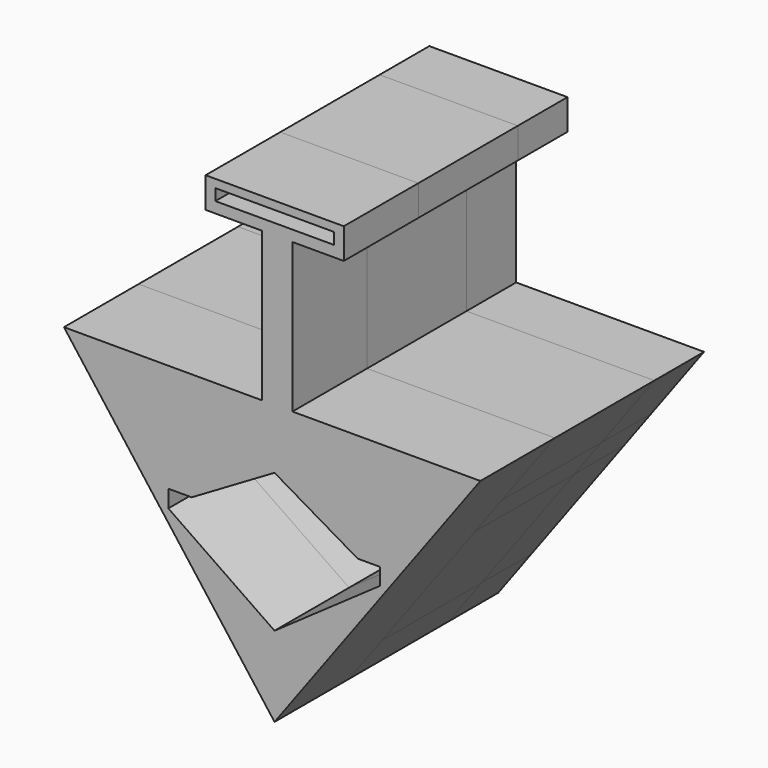
from build123d import *

# Parameters (mm, degrees)
F0_W      = 48.461918
F0_H      = 4.679083
F0_R      = 10.433779
F0_R_2    = 6.546858
F1_DEPTH  = 38.1
F0_W_2    = 12.404488
F0_H_2    = 61.022204
F2_DEPTH  = 76.2
F2_FACE_W = 48.461918
F2_FACE_H = 4.679083
F3_DEPTH  = 38.1
F4_DEPTH  = 25.4


with BuildPart() as f1:
    # F0 (on Front) → F1 (new body)
    with BuildSketch(Plane.XZ):
        Polygon((62.453386, 14.853092), (84.140211, 44.254274), (55.262458, 44.254274), (55.262458, 35.366073), (67.959888, 35.366073), (55.300537, 20.129158), align=None)
        Polygon((0, -69.815982), (13.449272, -51.582585), (-13.759367, -51.582585), align=None)
        Polygon((-86.080205, 44.254274), (-63.49443, 14.324454), (-56.763492, 20.129158), (-69.903679, 35.366073), (-57.20625, 35.366073), (-57.20625, 44.254274), align=None)
        Polygon((12.404488, 29.258548), (12.404488, 44.254274), (7.325516, 44.254274), (-5.078972, 44.254274), (-9.840053, 44.254274), (-9.840053, 29.258548), align=None)
        Polygon((-5.078972, 105.276478), (7.325516, 105.276478), (28.311934, 105.276478), (28.311934, 117.766815), (-28.171266, 117.766815), (-28.171266, 105.276478), align=None)
        with Locations((0.054005, 112.085069)):
            Rectangle(F0_W, F0_H, mode=Mode.SUBTRACT)
        Circle(F0_R)
        Circle(F0_R_2, mode=Mode.SUBTRACT)
    extrude(amount=F1_DEPTH)


with BuildPart() as f2:
    # F0 (on Front) → F2 (new body)
    with BuildSketch(Plane.XZ):
        Polygon((62.453386, 14.853092), (84.140211, 44.254274), (55.262458, 44.254274), (55.262458, 35.366073), (67.959888, 35.366073), (55.300537, 20.129158), align=None)
        Polygon((51.497486, 0), (62.453386, 14.853092), (55.300537, 20.129158), (67.959888, 35.366073), (55.262458, 35.366073), (55.262458, 44.254274), (26.752584, 44.254274), (26.752584, 29.258548), (48.084265, 29.258548), (31.147928, 15.80614), (47.033537, 11.320921), (33.993676, 0), (43.190195, 0), align=None)
        Polygon((13.449272, -51.582585), (51.497486, 0), (43.190195, 0), (43.190195, -6.783513), (0, -36.989871), (-43.404702, -7.092567), (-43.404702, 0), (-52.684847, 0), (-13.759367, -51.582585), align=None)
        Polygon((26.752584, 29.258548), (26.752584, 44.254274), (12.404488, 44.254274), (12.404488, 29.258548), (-9.840053, 29.258548), (-9.840053, 44.254274), (-24.176954, 44.254274), (-24.176954, 29.258548), (-45.508636, 29.258548), (-33.828657, 17.594593), (-48.606484, 8.974194), (-33.853007, 0), (0, 19.840313), (33.993676, 0), (47.033537, 11.320921), (31.147928, 15.80614), (48.084265, 29.258548), align=None)
        Polygon((0, -69.815982), (13.449272, -51.582585), (-13.759367, -51.582585), align=None)
        Polygon((12.404488, 29.258548), (12.404488, 44.254274), (7.325516, 44.254274), (-5.078972, 44.254274), (-9.840053, 44.254274), (-9.840053, 29.258548), align=None)
        with Locations((1.123272, 74.765376)):
            Rectangle(F0_W_2, F0_H_2)
        Polygon((-63.49443, 14.324454), (-52.684847, 0), (-43.404702, 0), (-41.229746, 0), (-33.853007, 0), (-48.606484, 8.974194), (-33.828657, 17.594593), (-45.508636, 29.258548), (-24.176954, 29.258548), (-24.176954, 44.254274), (-57.20625, 44.254274), (-57.20625, 35.366073), (-69.903679, 35.366073), (-56.763492, 20.129158), align=None)
        Polygon((-5.078972, 105.276478), (7.325516, 105.276478), (28.311934, 105.276478), (28.311934, 117.766815), (-28.171266, 117.766815), (-28.171266, 105.276478), align=None)
        with Locations((0.054005, 112.085069)):
            Rectangle(F0_W, F0_H, mode=Mode.SUBTRACT)
        Polygon((-86.080205, 44.254274), (-63.49443, 14.324454), (-56.763492, 20.129158), (-69.903679, 35.366073), (-57.20625, 35.366073), (-57.20625, 44.254274), align=None)
    extrude(amount=F2_DEPTH)


with BuildPart() as f3:
    # F2_face (on face) → F3 (new body)
    with BuildSketch(Plane(origin=(-0.605972, -76.2, 22.707464), x_dir=(1, 0, 0), z_dir=(0, -1, 0))):
        Polygon((7.931488, 82.569013), (28.917906, 82.569013), (28.917906, 95.05935), (-27.565295, 95.05935), (-27.565295, 82.569013), (-4.473, 82.569013), (-4.473, 21.54681), (-85.474233, 21.54681), (0.605972, -92.523446), (84.746182, 21.54681), (7.931488, 21.54681), align=None)
        with Locations((0.659976, 89.377603)):
            Rectangle(F2_FACE_W, F2_FACE_H, mode=Mode.SUBTRACT)
        Polygon((-42.798731, -22.707464), (-33.247036, -22.707464), (0.605972, -2.867152), (34.599647, -22.707464), (43.796167, -22.707464), (43.796167, -29.490978), (0.605972, -59.697336), (-42.798731, -29.800031), align=None, mode=Mode.SUBTRACT)
    extrude(amount=F3_DEPTH)


with BuildPart() as f4:
    # F0 (on Front) → F4 (new body)
    with BuildSketch(Plane.XZ):
        Polygon((62.453386, 14.853092), (84.140211, 44.254274), (55.262458, 44.254274), (55.262458, 35.366073), (67.959888, 35.366073), (55.300537, 20.129158), align=None)
        Polygon((51.497486, 0), (62.453386, 14.853092), (55.300537, 20.129158), (67.959888, 35.366073), (55.262458, 35.366073), (55.262458, 44.254274), (26.752584, 44.254274), (26.752584, 29.258548), (48.084265, 29.258548), (31.147928, 15.80614), (47.033537, 11.320921), (33.993676, 0), (43.190195, 0), align=None)
        Polygon((13.449272, -51.582585), (51.497486, 0), (43.190195, 0), (43.190195, -6.783513), (0, -36.989871), (-43.404702, -7.092567), (-43.404702, 0), (-52.684847, 0), (-13.759367, -51.582585), align=None)
        Polygon((26.752584, 29.258548), (26.752584, 44.254274), (12.404488, 44.254274), (12.404488, 29.258548), (-9.840053, 29.258548), (-9.840053, 44.254274), (-24.176954, 44.254274), (-24.176954, 29.258548), (-45.508636, 29.258548), (-33.828657, 17.594593), (-48.606484, 8.974194), (-33.853007, 0), (0, 19.840313), (33.993676, 0), (47.033537, 11.320921), (31.147928, 15.80614), (48.084265, 29.258548), align=None)
        Polygon((0, -69.815982), (13.449272, -51.582585), (-13.759367, -51.582585), align=None)
        Polygon((12.404488, 29.258548), (12.404488, 44.254274), (7.325516, 44.254274), (-5.078972, 44.254274), (-9.840053, 44.254274), (-9.840053, 29.258548), align=None)
        with Locations((1.123272, 74.765376)):
            Rectangle(F0_W_2, F0_H_2)
        Polygon((-63.49443, 14.324454), (-52.684847, 0), (-43.404702, 0), (-41.229746, 0), (-33.853007, 0), (-48.606484, 8.974194), (-33.828657, 17.594593), (-45.508636, 29.258548), (-24.176954, 29.258548), (-24.176954, 44.254274), (-57.20625, 44.254274), (-57.20625, 35.366073), (-69.903679, 35.366073), (-56.763492, 20.129158), align=None)
        Polygon((-5.078972, 105.276478), (7.325516, 105.276478), (28.311934, 105.276478), (28.311934, 117.766815), (-28.171266, 117.766815), (-28.171266, 105.276478), align=None)
        with Locations((0.054005, 112.085069)):
            Rectangle(F0_W, F0_H, mode=Mode.SUBTRACT)
        Polygon((-86.080205, 44.254274), (-63.49443, 14.324454), (-56.763492, 20.129158), (-69.903679, 35.366073), (-57.20625, 35.366073), (-57.20625, 44.254274), align=None)
    extrude(amount=F4_DEPTH)


solid = Compound([f1.part, f2.part, f3.part, f4.part])
